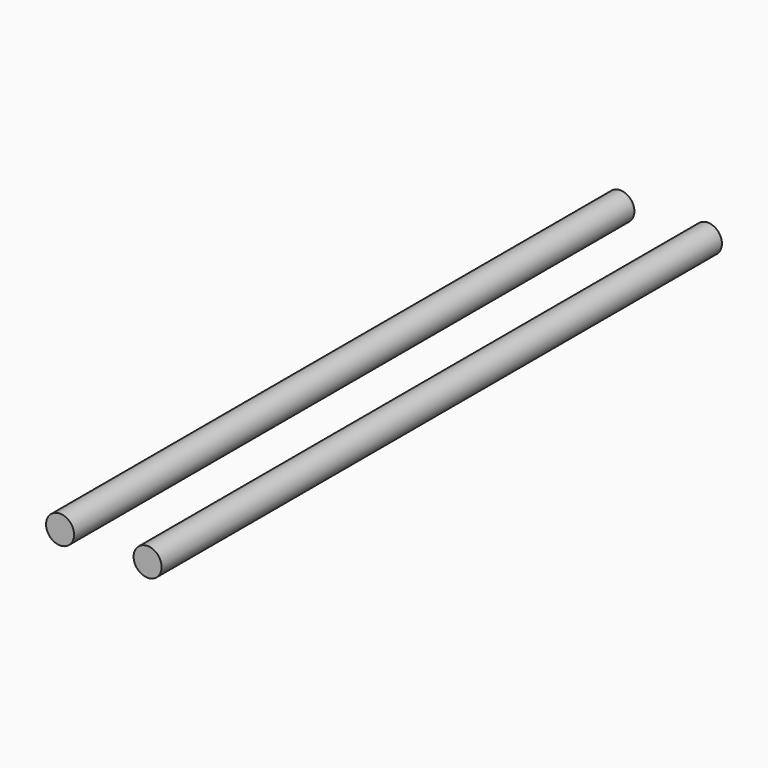
from build123d import *

# Parameters (mm, degrees)
F1_R     = 8
F2_DEPTH = 400


with BuildPart() as f2:
    # F1 (on Front) → F2 (new body)
    with BuildSketch(Plane.XZ):
        with Locations((30, 8)):
            Circle(F1_R)
    extrude(amount=-F2_DEPTH)


with BuildPart() as f2b:
    # F1 (on Front) → F2, piece 2 (new body)
    with BuildSketch(Plane.XZ):
        with Locations((80, 8)):
            Circle(F1_R)
    extrude(amount=-F2_DEPTH)


solid = Compound([f2.part, f2b.part])
